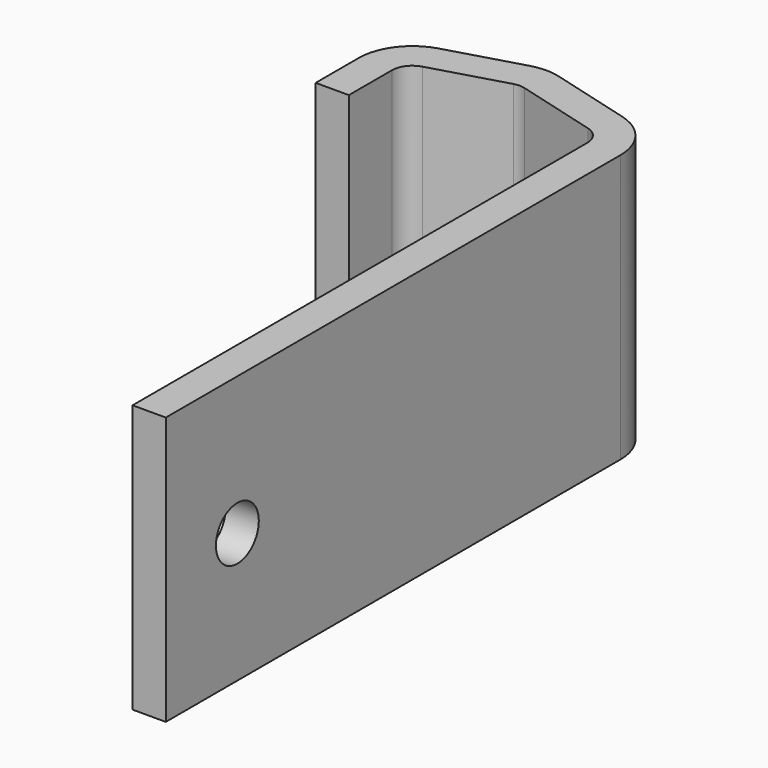
from build123d import *

# Parameters (mm, degrees)
F1_DEPTH = 25
F3_D     = 5


with BuildPart() as f1:
    # F0 (on Top) → F1 (new body)
    with BuildSketch(Plane.XY):
        with BuildLine():
            Line((-11.847499, 6.098918), (-11.847499, 1.069734))
            Line((-11.847499, 1.069734), (-8.747498, 1.069734))
            Line((-8.747498, 1.069734), (-8.747498, 6.098918))
            ThreePointArc((-8.747498, 6.098918), (-8.367381, 7.239074), (-7.379123, 7.923027))
            Line((-7.379123, 7.923027), (-0.488766, 9.931175))
            ThreePointArc((-0.488766, 9.931175), (0.027186, 10.007), (0.544318, 9.939697))
            Line((0.544318, 9.939697), (8.120311, 7.866691))
            ThreePointArc((8.120311, 7.866691), (9.129277, 7.186715), (9.518851, 6.03406))
            Line((9.518851, 6.03406), (9.518851, -46.987938))
            Line((9.518851, -46.987938), (12.618851, -46.987938))
            Line((12.618851, -46.987938), (12.618851, 6.03406))
            ThreePointArc((12.618851, 6.03406), (11.593656, 9.067363), (8.938482, 10.856775))
            Line((8.938482, 10.856775), (1.362489, 12.92978))
            ThreePointArc((1.362489, 12.92978), (0.001614, 13.106895), (-1.356153, 12.907354))
            Line((-1.356153, 12.907354), (-8.24651, 10.899206))
            ThreePointArc((-8.24651, 10.899206), (-10.84719, 9.099329), (-11.847499, 6.098918))
        make_face()
    extrude(amount=F1_DEPTH)

    # F3 (through all)
    with Locations(Plane(origin=(9.518851, 0, 0), x_dir=(0, -1, 0), z_dir=(-1, 0, 0))):
        with Locations((38.641255, 12.102515)):
            Hole(F3_D / 2)


solid = f1.part
